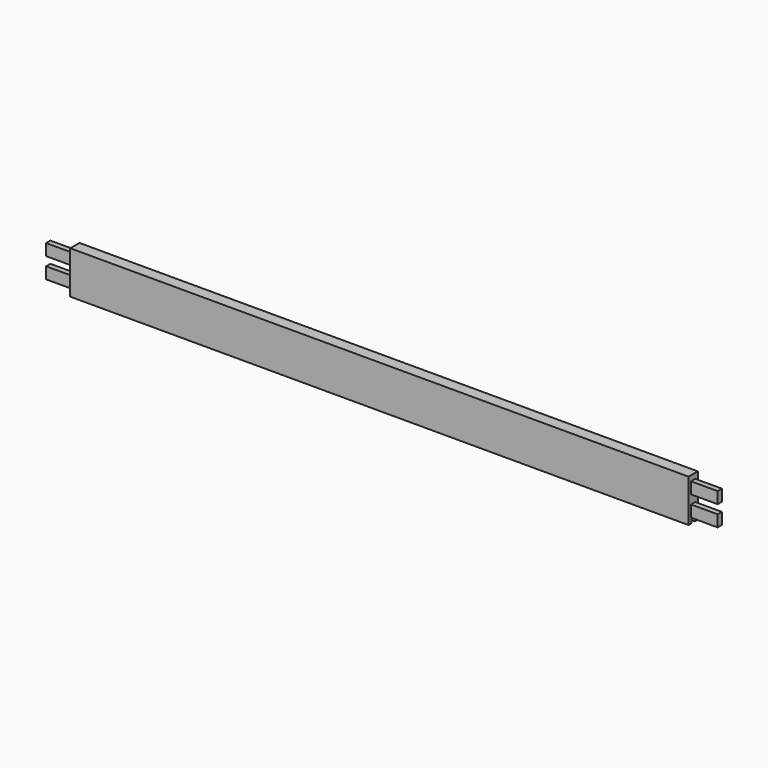
from build123d import *

# Parameters (mm, degrees)
F0_W     = 1104.9
F0_H     = 76.2
F1_DEPTH = 10.31875
F2_W     = 9.525
F2_H     = 20.6375
F3_DEPTH = 47.625
F4_W     = 9.525
F4_H     = 20.6375
F5_DEPTH = 47.625
F6_W     = 1104.9
F6_H     = 7.9375
F7_DEPTH = 9.525


with BuildPart() as f1:
    # F0 (on Front) → F1 (new body, symmetric)
    with BuildSketch(Plane.XZ):
        Rectangle(F0_W, F0_H)
    extrude(amount=F1_DEPTH, both=True)

    # F2 (on face) → F3 (join)
    with BuildSketch(Plane.YZ.offset(552.45)):
        with Locations((0, 18.25625)):
            Rectangle(F2_W, F2_H)
        with Locations((0, -18.25625)):
            Rectangle(F2_W, F2_H)
    extrude(amount=F3_DEPTH)

    # F4 (on face) → F5 (join)
    with BuildSketch(Plane(origin=(-552.45, 0, 0), x_dir=(0, -1, 0), z_dir=(-1, 0, 0))):
        with Locations((0, -18.25625)):
            Rectangle(F4_W, F4_H)
        with Locations((0, 18.25625)):
            Rectangle(F4_W, F4_H)
    extrude(amount=F5_DEPTH)

    # F6 (on face) → F7 (cut)
    with BuildSketch(Plane(origin=(0, 0, -38.1), x_dir=(1, 0, 0), z_dir=(0, 0, -1))):
        Rectangle(F6_W, F6_H)
    extrude(amount=-F7_DEPTH, mode=Mode.SUBTRACT)


solid = f1.part
